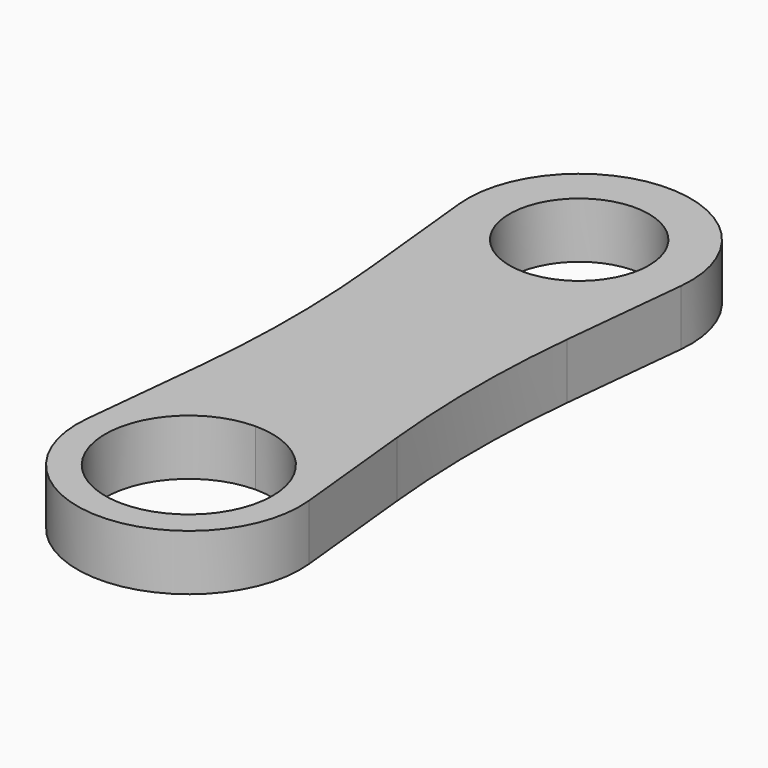
from build123d import *

# Parameters (mm, degrees)
F1_DEPTH = 1.6


with BuildPart() as f1:
    # F0 (on Top) → F1 (new body)
    with BuildSketch(Plane.XY):
        with BuildLine():
            ThreePointArc((0, 2.4), (-1.697056, -1.697056), (2.4, 0))
            ThreePointArc((2.4, 0), (1.697056, 1.697056), (0, 2.4))
        make_face()
        with BuildLine():
            ThreePointArc((2, 14), (-1.414214, 15.414214), (0, 12))
            ThreePointArc((0, 12), (1.414214, 12.585786), (2, 14))
        make_face()
        with BuildLine():
            Line((-2.812876, 3.944275), (-3.183357, 0.325944))
            ThreePointArc((-3.183357, 0.325944), (0, -3.2), (3.183357, 0.325944))
            Line((3.183357, 0.325944), (2.812876, 3.944275))
            ThreePointArc((2.812876, 3.944275), (2.656846, 7), (2.812876, 10.055725))
            Line((2.812876, 10.055725), (3.183357, 13.674056))
            ThreePointArc((3.183357, 13.674056), (0, 17.2), (-3.183357, 13.674056))
            Line((-3.183357, 13.674056), (-2.812876, 10.055725))
            ThreePointArc((-2.812876, 10.055725), (-2.656846, 7), (-2.812876, 3.944275))
        make_face()
        with BuildLine():
            ThreePointArc((0, 2.4), (1.697056, 1.697056), (2.4, 0))
            ThreePointArc((2.4, 0), (-1.697056, -1.697056), (0, 2.4))
        make_face(mode=Mode.SUBTRACT)
        with BuildLine():
            ThreePointArc((2, 14), (1.414214, 12.585786), (0, 12))
            ThreePointArc((0, 12), (-1.414214, 15.414214), (2, 14))
        make_face(mode=Mode.SUBTRACT)
    extrude(amount=F1_DEPTH)


solid = f1.part
